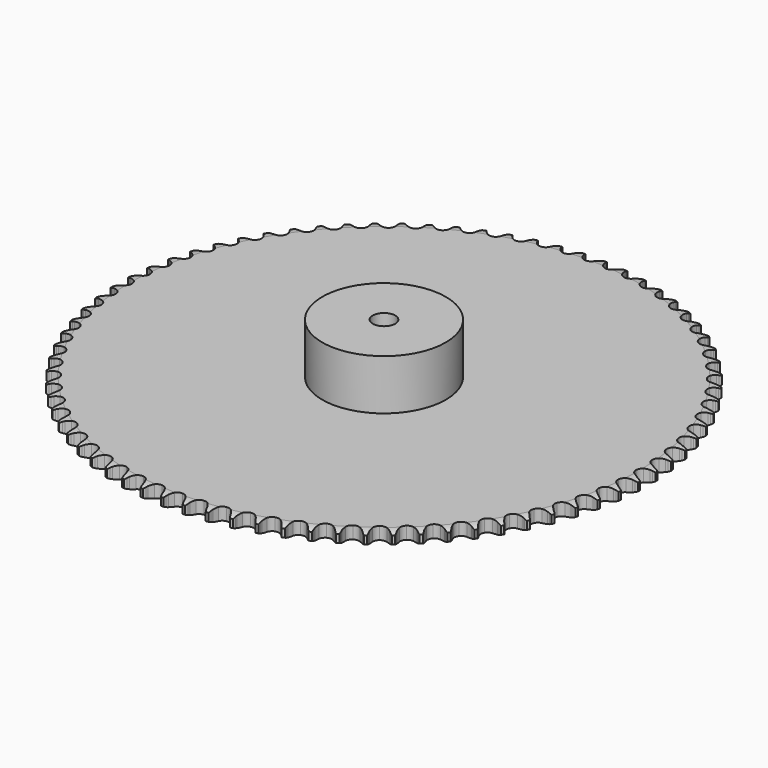
from build123d import *

# Parameters (mm, degrees)
PAD_DEPTH         = 11.1
SKETCH001_R       = 55
PAD001_DEPTH      = 56
SKETCH002_R       = 10
POCKET_DEPTH      = 0.001
POCKET_DEPTH_BACK = 56.001


with BuildPart() as part:
    # Sprocket → Pad (new body)
    with BuildSketch(Plane.XY):
        with BuildLine():
            ThreePointArc((-9.776845, 236.382307), (-8.548277, 234.737815), (-7.693596, 232.871467))
            Line((-7.693596, 232.871467), (-7.109925, 231.129719))
            ThreePointArc((-7.109925, 231.129719), (-6.189177, 228.943845), (-4.950801, 226.920914))
            ThreePointArc((-4.950801, 226.920914), (-2.780815, 225.057204), (0, 224.386887))
            ThreePointArc((0, 224.386887), (2.780815, 225.057204), (4.950801, 226.920914))
            ThreePointArc((4.950801, 226.920914), (6.189177, 228.943845), (7.109925, 231.129719))
            Line((7.109925, 231.129719), (7.693596, 232.871467))
            ThreePointArc((7.693596, 232.871467), (8.548277, 234.737815), (9.776845, 236.382307))
            ThreePointArc((9.776845, 236.382307), (10.865415, 234.641977), (11.563055, 232.711425))
            Line((11.563055, 232.711425), (12.0009, 230.927427))
            ThreePointArc((12.0009, 230.927427), (12.737995, 228.672984), (13.805089, 226.554698))
            ThreePointArc((13.805089, 226.554698), (15.81376, 224.518157), (18.529722, 223.620492))
            ThreePointArc((18.529722, 223.620492), (21.356394, 224.058881), (23.672872, 225.73703))
            Line((23.672872, 225.73703), (26.172182, 229.753161))
            ThreePointArc((26.172182, 229.753161), (26.510327, 230.607541), (26.897691, 231.440761))
            ThreePointArc((26.897691, 231.440761), (27.903576, 233.230155), (29.263748, 234.767576))
            ThreePointArc((29.263748, 234.767576), (30.204885, 232.943297), (30.740719, 230.961728))
            Line((30.740719, 230.961728), (31.029746, 229.147666))
            ThreePointArc((31.029746, 229.147666), (31.578153, 226.840054), (32.466676, 224.640883))
            ThreePointArc((32.466676, 224.640883), (34.30031, 222.445424), (36.932868, 221.326542))
            ThreePointArc((36.932868, 221.326542), (39.786086, 221.53001), (42.233234, 223.011133))
            Line((42.233234, 223.011133), (45.055656, 226.807156))
            ThreePointArc((45.055656, 226.807156), (45.463201, 227.630694), (45.918049, 228.42908))
            ThreePointArc((45.918049, 228.42908), (47.068264, 230.129297), (48.55075, 231.549145))
            ThreePointArc((48.55075, 231.549145), (49.338025, 229.653378), (49.708392, 227.634328))
            Line((49.708392, 227.634328), (49.846628, 225.802595))
            ThreePointArc((49.846628, 225.802595), (50.202601, 223.457577), (50.906483, 221.192544))
            ThreePointArc((50.906483, 221.192544), (52.552555, 218.853163), (55.083724, 217.520708))
            ThreePointArc((55.083724, 217.520708), (57.944, 217.487863), (60.505099, 218.761844))
            Line((60.505099, 218.761844), (63.631355, 222.311828))
            ThreePointArc((63.631355, 222.311828), (64.105514, 223.098898), (64.624739, 223.856996))
            ThreePointArc((64.624739, 223.856996), (65.911429, 225.456422), (67.506101, 226.748998))
            ThreePointArc((67.506101, 226.748998), (68.134136, 224.794693), (68.336506, 222.751955))
            Line((68.336506, 222.751955), (68.323007, 220.915062))
            ThreePointArc((68.323007, 220.915062), (68.484114, 218.548658), (68.998547, 216.233235))
            ThreePointArc((68.998547, 216.233235), (70.445812, 213.765913), (72.858303, 212.228986))
            ThreePointArc((72.858303, 212.228986), (75.706097, 211.960054), (78.363654, 213.01819))
            Line((78.363654, 213.01819), (81.772387, 216.297885))
            ThreePointArc((81.772387, 216.297885), (82.309923, 217.043111), (82.889977, 217.755742))
            ThreePointArc((82.889977, 217.755742), (84.304352, 219.243451), (86.000318, 220.399925))
            ThreePointArc((86.000318, 220.399925), (86.464822, 218.400433), (86.497813, 216.34796))
            Line((86.497813, 216.34796), (86.332671, 214.518456))
            ThreePointArc((86.332671, 214.518456), (86.297811, 212.14683), (86.619281, 209.796834))
            ThreePointArc((86.619281, 209.796834), (87.857853, 207.218425), (90.135186, 205.487526))
            ThreePointArc((90.135186, 205.487526), (92.951045, 204.984343), (95.686905, 205.819406))
            Line((95.686905, 205.819406), (99.354831, 208.806407))
            ThreePointArc((99.354831, 208.806407), (99.95207, 209.504699), (100.588993, 210.166996))
            ThreePointArc((100.588993, 210.166996), (102.12139, 211.532826), (103.907065, 212.545298))
            ThreePointArc((103.907065, 212.545298), (104.204866, 210.514277), (104.068252, 208.46609))
            Line((104.068252, 208.46609), (103.752595, 206.656472))
            ThreePointArc((103.752595, 206.656472), (103.522007, 204.295825), (103.648317, 201.927308))
            ThreePointArc((103.648317, 201.927308), (104.669736, 199.255425), (106.796354, 197.342377))
            ThreePointArc((106.796354, 197.342377), (109.561043, 196.608382), (112.356517, 197.214666))
            Line((112.356517, 197.214666), (116.25858, 199.888571))
            ThreePointArc((116.25858, 199.888571), (116.911444, 200.535158), (117.600883, 201.142596))
            ThreePointArc((117.600883, 201.142596), (119.240836, 202.377216), (121.104021, 203.23877))
            ThreePointArc((121.104021, 203.23877), (121.233084, 201.190094), (120.9278, 199.160184))
            Line((120.9278, 199.160184), (120.463783, 197.382814))
            ThreePointArc((120.463783, 197.382814), (120.039042, 195.049271), (119.969331, 192.678414))
            ThreePointArc((119.969331, 192.678414), (120.766618, 189.931308), (122.727994, 187.84918))
            ThreePointArc((122.727994, 187.84918), (125.422628, 186.889385), (128.258621, 187.262751))
            Line((128.258621, 187.262751), (132.368165, 189.605293))
            ThreePointArc((132.368165, 189.605293), (133.072195, 190.195758), (133.80944, 190.744188))
            ThreePointArc((133.80944, 190.744188), (135.545746, 191.839165), (137.473714, 192.543916))
            ThreePointArc((137.473714, 192.543916), (137.433158, 190.491579), (136.961288, 188.493813))
            Line((136.961288, 188.493813), (136.352082, 186.760831))
            ThreePointArc((136.352082, 186.760831), (135.736089, 184.470334), (135.470832, 182.113331))
            ThreePointArc((135.470832, 182.113331), (136.038542, 179.309768), (137.821278, 177.072782))
            ThreePointArc((137.821278, 177.072782), (140.427449, 175.893744), (143.284588, 176.03164))
            Line((143.284588, 176.03164), (147.573542, 178.026818))
            ThreePointArc((147.573542, 178.026818), (148.323927, 178.557128), (149.103944, 179.042804))
            ThreePointArc((149.103944, 179.042804), (150.924742, 179.990658), (152.904322, 180.533792))
            ThreePointArc((152.904322, 180.533792), (152.694424, 178.491813), (152.059191, 176.539837))
            Line((152.059191, 176.539837), (151.308958, 174.863082))
            ThreePointArc((151.308958, 174.863082), (150.505921, 172.631276), (150.04693, 170.304229))
            ThreePointArc((150.04693, 170.304229), (150.381185, 167.463361), (151.973103, 165.086798))
            ThreePointArc((151.973103, 165.086798), (154.473009, 163.696571), (157.331776, 163.598056))
            Line((157.331776, 163.598056), (161.770841, 165.23224))
            ThreePointArc((161.770841, 165.23224), (162.562456, 165.698773), (163.379916, 166.118376))
            ThreePointArc((163.379916, 166.118376), (165.272768, 166.912632), (167.290439, 167.290439))
            ThreePointArc((167.290439, 167.290439), (166.912632, 165.272768), (166.118376, 163.379916))
            Line((166.118376, 163.379916), (165.23224, 161.770841))
            ThreePointArc((165.23224, 161.770841), (164.247645, 159.612973), (163.598056, 157.331776))
            ThreePointArc((163.598056, 157.331776), (163.696571, 154.473009), (165.086798, 151.973103))
            ThreePointArc((165.086798, 151.973103), (167.463361, 150.381185), (170.304229, 150.04693))
            Line((170.304229, 150.04693), (174.863082, 151.308958))
            ThreePointArc((174.863082, 151.308958), (175.690519, 151.708526), (176.539837, 152.059191))
            ThreePointArc((176.539837, 152.059191), (178.491813, 152.694424), (180.533792, 152.904322))
            ThreePointArc((180.533792, 152.904322), (179.990658, 150.924742), (179.042804, 149.103944))
            Line((179.042804, 149.103944), (178.026818, 147.573542))
            ThreePointArc((178.026818, 147.573542), (176.867391, 145.50435), (176.03164, 143.284588))
            ThreePointArc((176.03164, 143.284588), (175.893744, 140.427449), (177.072782, 137.821278))
            ThreePointArc((177.072782, 137.821278), (179.309768, 136.038542), (182.113331, 135.470832))
            Line((182.113331, 135.470832), (186.760831, 136.352082))
            ThreePointArc((186.760831, 136.352082), (187.618438, 136.681956), (188.493813, 136.961288))
            ThreePointArc((188.493813, 136.961288), (190.491579, 137.433158), (192.543916, 137.473714))
            ThreePointArc((192.543916, 137.473714), (191.839165, 135.545746), (190.744188, 133.80944))
            Line((190.744188, 133.80944), (189.605293, 132.368165))
            ThreePointArc((189.605293, 132.368165), (188.278953, 130.401786), (187.262751, 128.258621))
            ThreePointArc((187.262751, 128.258621), (186.889385, 125.422628), (187.84918, 122.727994))
            ThreePointArc((187.84918, 122.727994), (189.931308, 120.766618), (192.678414, 119.969331))
            Line((192.678414, 119.969331), (197.382814, 120.463783))
            ThreePointArc((197.382814, 120.463783), (198.264732, 120.72171), (199.160184, 120.9278))
            ThreePointArc((199.160184, 120.9278), (201.190094, 121.233084), (203.23877, 121.104021))
            ThreePointArc((203.23877, 121.104021), (202.377216, 119.240836), (201.142596, 117.600883))
            Line((201.142596, 117.600883), (199.888571, 116.25858))
            ThreePointArc((199.888571, 116.25858), (198.404379, 114.408445), (197.214666, 112.356517))
            ThreePointArc((197.214666, 112.356517), (196.608382, 109.561043), (197.342377, 106.796354))
            ThreePointArc((197.342377, 106.796354), (199.255425, 104.669736), (201.927308, 103.648317))
            Line((201.927308, 103.648317), (206.656472, 103.752595))
            ThreePointArc((206.656472, 103.752595), (207.556677, 103.936813), (208.46609, 104.068252))
            ThreePointArc((208.46609, 104.068252), (210.514277, 104.204866), (212.545298, 103.907065))
            ThreePointArc((212.545298, 103.907065), (211.532826, 102.12139), (210.166996, 100.588993))
            Line((210.166996, 100.588993), (208.806407, 99.354831))
            ThreePointArc((208.806407, 99.354831), (207.174502, 97.633578), (205.819406, 95.686905))
            ThreePointArc((205.819406, 95.686905), (204.984343, 92.951045), (205.487526, 90.135186))
            ThreePointArc((205.487526, 90.135186), (207.218425, 87.857853), (209.796834, 86.619281))
            Line((209.796834, 86.619281), (214.518456, 86.332671))
            ThreePointArc((214.518456, 86.332671), (215.4308, 86.441921), (216.34796, 86.497813))
            ThreePointArc((216.34796, 86.497813), (218.400433, 86.464822), (220.399925, 86.000318))
            ThreePointArc((220.399925, 86.000318), (219.243451, 84.304352), (217.755742, 82.889977))
            Line((217.755742, 82.889977), (216.297885, 81.772387))
            ThreePointArc((216.297885, 81.772387), (214.529413, 80.191775), (213.01819, 78.363654))
            ThreePointArc((213.01819, 78.363654), (211.960054, 75.706097), (212.228986, 72.858303))
            ThreePointArc((212.228986, 72.858303), (213.765913, 70.445812), (216.233235, 68.998547))
            Line((216.233235, 68.998547), (220.915062, 68.323007))
            ThreePointArc((220.915062, 68.323007), (221.833312, 68.356544), (222.751955, 68.336506))
            ThreePointArc((222.751955, 68.336506), (224.794693, 68.134136), (226.748998, 67.506101))
            ThreePointArc((226.748998, 67.506101), (225.456422, 65.911429), (223.856996, 64.624739))
            Line((223.856996, 64.624739), (222.311828, 63.631355))
            ThreePointArc((222.311828, 63.631355), (220.418871, 62.202181), (218.761844, 60.505099))
            ThreePointArc((218.761844, 60.505099), (217.487863, 57.944), (217.520708, 55.083724))
            ThreePointArc((217.520708, 55.083724), (218.853163, 52.552555), (221.192544, 50.906483))
            Line((221.192544, 50.906483), (225.802595, 49.846628))
            ThreePointArc((225.802595, 49.846628), (226.720477, 49.804222), (227.634328, 49.708392))
            ThreePointArc((227.634328, 49.708392), (229.653378, 49.338025), (231.549145, 48.55075))
            ThreePointArc((231.549145, 48.55075), (230.129297, 47.068264), (228.42908, 45.918049))
            Line((228.42908, 45.918049), (226.807156, 45.055656))
            ThreePointArc((226.807156, 45.055656), (224.802644, 43.787683), (223.011133, 42.233234))
            ThreePointArc((223.011133, 42.233234), (221.53001, 39.786086), (221.326542, 36.932868))
            ThreePointArc((221.326542, 36.932868), (222.445424, 34.30031), (224.640883, 32.466676))
            Line((224.640883, 32.466676), (229.147666, 31.029746))
            ThreePointArc((229.147666, 31.029746), (230.058912, 30.911687), (230.961728, 30.740719))
            ThreePointArc((230.961728, 30.740719), (232.943297, 30.204885), (234.767576, 29.263748))
            ThreePointArc((234.767576, 29.263748), (233.230155, 27.903576), (231.440761, 26.897691))
            Line((231.440761, 26.897691), (229.753161, 26.172182))
            ThreePointArc((229.753161, 26.172182), (227.650787, 25.074071), (225.73703, 23.672872))
            ThreePointArc((225.73703, 23.672872), (224.058881, 21.356394), (223.620492, 18.529722))
            ThreePointArc((223.620492, 18.529722), (224.518157, 15.81376), (226.554698, 13.805089))
            Line((226.554698, 13.805089), (230.927427, 12.0009))
            ThreePointArc((230.927427, 12.0009), (231.825811, 11.807993), (232.711425, 11.563055))
            ThreePointArc((232.711425, 11.563055), (234.641977, 10.865415), (236.382307, 9.776845))
            ThreePointArc((236.382307, 9.776845), (234.737815, 8.548277), (232.871467, 7.693596))
            Line((232.871467, 7.693596), (231.129719, 7.109925))
            ThreePointArc((231.129719, 7.109925), (228.943845, 6.189177), (226.920914, 4.950801))
            ThreePointArc((226.920914, 4.950801), (225.057204, 2.780815), (224.386887, 0))
            ThreePointArc((224.386887, 0), (225.057204, -2.780815), (226.920914, -4.950801))
            Line((226.920914, -4.950801), (231.129719, -7.109925))
            ThreePointArc((231.129719, -7.109925), (232.009105, -7.376361), (232.871467, -7.693596))
            ThreePointArc((232.871467, -7.693596), (234.737815, -8.548277), (236.382307, -9.776845))
            ThreePointArc((236.382307, -9.776845), (234.641977, -10.865415), (232.711425, -11.563055))
            Line((232.711425, -11.563055), (230.927427, -12.0009))
            ThreePointArc((230.927427, -12.0009), (228.672984, -12.737995), (226.554698, -13.805089))
            ThreePointArc((226.554698, -13.805089), (224.518157, -15.81376), (223.620492, -18.529722))
            ThreePointArc((223.620492, -18.529722), (224.058881, -21.356394), (225.73703, -23.672872))
            Line((225.73703, -23.672872), (229.753161, -26.172182))
            ThreePointArc((229.753161, -26.172182), (230.607541, -26.510327), (231.440761, -26.897691))
            ThreePointArc((231.440761, -26.897691), (233.230155, -27.903576), (234.767576, -29.263748))
            ThreePointArc((234.767576, -29.263748), (232.943297, -30.204885), (230.961728, -30.740719))
            Line((230.961728, -30.740719), (229.147666, -31.029746))
            ThreePointArc((229.147666, -31.029746), (226.840054, -31.578153), (224.640883, -32.466676))
            ThreePointArc((224.640883, -32.466676), (222.445424, -34.30031), (221.326542, -36.932868))
            ThreePointArc((221.326542, -36.932868), (221.53001, -39.786086), (223.011133, -42.233234))
            Line((223.011133, -42.233234), (226.807156, -45.055656))
            ThreePointArc((226.807156, -45.055656), (227.630694, -45.463201), (228.42908, -45.918049))
            ThreePointArc((228.42908, -45.918049), (230.129297, -47.068264), (231.549145, -48.55075))
            ThreePointArc((231.549145, -48.55075), (229.653378, -49.338025), (227.634328, -49.708392))
            Line((227.634328, -49.708392), (225.802595, -49.846628))
            ThreePointArc((225.802595, -49.846628), (223.457577, -50.202601), (221.192544, -50.906483))
            ThreePointArc((221.192544, -50.906483), (218.853163, -52.552555), (217.520708, -55.083724))
            ThreePointArc((217.520708, -55.083724), (217.487863, -57.944), (218.761844, -60.505099))
            Line((218.761844, -60.505099), (222.311828, -63.631355))
            ThreePointArc((222.311828, -63.631355), (223.098898, -64.105514), (223.856996, -64.624739))
            ThreePointArc((223.856996, -64.624739), (225.456422, -65.911429), (226.748998, -67.506101))
            ThreePointArc((226.748998, -67.506101), (224.794693, -68.134136), (222.751955, -68.336506))
            Line((222.751955, -68.336506), (220.915062, -68.323007))
            ThreePointArc((220.915062, -68.323007), (218.548658, -68.484114), (216.233235, -68.998547))
            ThreePointArc((216.233235, -68.998547), (213.765913, -70.445812), (212.228986, -72.858303))
            ThreePointArc((212.228986, -72.858303), (211.960054, -75.706097), (213.01819, -78.363654))
            Line((213.01819, -78.363654), (216.297885, -81.772387))
            ThreePointArc((216.297885, -81.772387), (217.043111, -82.309923), (217.755742, -82.889977))
            ThreePointArc((217.755742, -82.889977), (219.243451, -84.304352), (220.399925, -86.000318))
            ThreePointArc((220.399925, -86.000318), (218.400433, -86.464822), (216.34796, -86.497813))
            Line((216.34796, -86.497813), (214.518456, -86.332671))
            ThreePointArc((214.518456, -86.332671), (212.14683, -86.297811), (209.796834, -86.619281))
            ThreePointArc((209.796834, -86.619281), (207.218425, -87.857853), (205.487526, -90.135186))
            ThreePointArc((205.487526, -90.135186), (204.984343, -92.951045), (205.819406, -95.686905))
            Line((205.819406, -95.686905), (208.806407, -99.354831))
            ThreePointArc((208.806407, -99.354831), (209.504699, -99.95207), (210.166996, -100.588993))
            ThreePointArc((210.166996, -100.588993), (211.532826, -102.12139), (212.545298, -103.907065))
            ThreePointArc((212.545298, -103.907065), (210.514277, -104.204866), (208.46609, -104.068252))
            Line((208.46609, -104.068252), (206.656472, -103.752595))
            ThreePointArc((206.656472, -103.752595), (204.295825, -103.522007), (201.927308, -103.648317))
            ThreePointArc((201.927308, -103.648317), (199.255425, -104.669736), (197.342377, -106.796354))
            ThreePointArc((197.342377, -106.796354), (196.608382, -109.561043), (197.214666, -112.356517))
            Line((197.214666, -112.356517), (199.888571, -116.25858))
            ThreePointArc((199.888571, -116.25858), (200.535158, -116.911444), (201.142596, -117.600883))
            ThreePointArc((201.142596, -117.600883), (202.377216, -119.240836), (203.23877, -121.104021))
            ThreePointArc((203.23877, -121.104021), (201.190094, -121.233084), (199.160184, -120.9278))
            Line((199.160184, -120.9278), (197.382814, -120.463783))
            ThreePointArc((197.382814, -120.463783), (195.049271, -120.039042), (192.678414, -119.969331))
            ThreePointArc((192.678414, -119.969331), (189.931308, -120.766618), (187.84918, -122.727994))
            ThreePointArc((187.84918, -122.727994), (186.889385, -125.422628), (187.262751, -128.258621))
            Line((187.262751, -128.258621), (189.605293, -132.368165))
            ThreePointArc((189.605293, -132.368165), (190.195758, -133.072195), (190.744188, -133.80944))
            ThreePointArc((190.744188, -133.80944), (191.839165, -135.545746), (192.543916, -137.473714))
            ThreePointArc((192.543916, -137.473714), (190.491579, -137.433158), (188.493813, -136.961288))
            Line((188.493813, -136.961288), (186.760831, -136.352082))
            ThreePointArc((186.760831, -136.352082), (184.470334, -135.736089), (182.113331, -135.470832))
            ThreePointArc((182.113331, -135.470832), (179.309768, -136.038542), (177.072782, -137.821278))
            ThreePointArc((177.072782, -137.821278), (175.893744, -140.427449), (176.03164, -143.284588))
            Line((176.03164, -143.284588), (178.026818, -147.573542))
            ThreePointArc((178.026818, -147.573542), (178.557128, -148.323927), (179.042804, -149.103944))
            ThreePointArc((179.042804, -149.103944), (179.990658, -150.924742), (180.533792, -152.904322))
            ThreePointArc((180.533792, -152.904322), (178.491813, -152.694424), (176.539837, -152.059191))
            Line((176.539837, -152.059191), (174.863082, -151.308958))
            ThreePointArc((174.863082, -151.308958), (172.631276, -150.505921), (170.304229, -150.04693))
            ThreePointArc((170.304229, -150.04693), (167.463361, -150.381185), (165.086798, -151.973103))
            ThreePointArc((165.086798, -151.973103), (163.696571, -154.473009), (163.598056, -157.331776))
            Line((163.598056, -157.331776), (165.23224, -161.770841))
            ThreePointArc((165.23224, -161.770841), (165.698773, -162.562456), (166.118376, -163.379916))
            ThreePointArc((166.118376, -163.379916), (166.912632, -165.272768), (167.290439, -167.290439))
            ThreePointArc((167.290439, -167.290439), (165.272768, -166.912632), (163.379916, -166.118376))
            Line((163.379916, -166.118376), (161.770841, -165.23224))
            ThreePointArc((161.770841, -165.23224), (159.612973, -164.247645), (157.331776, -163.598056))
            ThreePointArc((157.331776, -163.598056), (154.473009, -163.696571), (151.973103, -165.086798))
            ThreePointArc((151.973103, -165.086798), (150.381185, -167.463361), (150.04693, -170.304229))
            Line((150.04693, -170.304229), (151.308958, -174.863082))
            ThreePointArc((151.308958, -174.863082), (151.708526, -175.690519), (152.059191, -176.539837))
            ThreePointArc((152.059191, -176.539837), (152.694424, -178.491813), (152.904322, -180.533792))
            ThreePointArc((152.904322, -180.533792), (150.924742, -179.990658), (149.103944, -179.042804))
            Line((149.103944, -179.042804), (147.573542, -178.026818))
            ThreePointArc((147.573542, -178.026818), (145.50435, -176.867391), (143.284588, -176.03164))
            ThreePointArc((143.284588, -176.03164), (140.427449, -175.893744), (137.821278, -177.072782))
            ThreePointArc((137.821278, -177.072782), (136.038542, -179.309768), (135.470832, -182.113331))
            Line((135.470832, -182.113331), (136.352082, -186.760831))
            ThreePointArc((136.352082, -186.760831), (136.681956, -187.618438), (136.961288, -188.493813))
            ThreePointArc((136.961288, -188.493813), (137.433158, -190.491579), (137.473714, -192.543916))
            ThreePointArc((137.473714, -192.543916), (135.545746, -191.839165), (133.80944, -190.744188))
            Line((133.80944, -190.744188), (132.368165, -189.605293))
            ThreePointArc((132.368165, -189.605293), (130.401786, -188.278953), (128.258621, -187.262751))
            ThreePointArc((128.258621, -187.262751), (125.422628, -186.889385), (122.727994, -187.84918))
            ThreePointArc((122.727994, -187.84918), (120.766618, -189.931308), (119.969331, -192.678414))
            Line((119.969331, -192.678414), (120.463783, -197.382814))
            ThreePointArc((120.463783, -197.382814), (120.72171, -198.264732), (120.9278, -199.160184))
            ThreePointArc((120.9278, -199.160184), (121.233084, -201.190094), (121.104021, -203.23877))
            ThreePointArc((121.104021, -203.23877), (119.240836, -202.377216), (117.600883, -201.142596))
            Line((117.600883, -201.142596), (116.25858, -199.888571))
            ThreePointArc((116.25858, -199.888571), (114.408445, -198.404379), (112.356517, -197.214666))
            ThreePointArc((112.356517, -197.214666), (109.561043, -196.608382), (106.796354, -197.342377))
            ThreePointArc((106.796354, -197.342377), (104.669736, -199.255425), (103.648317, -201.927308))
            Line((103.648317, -201.927308), (103.752595, -206.656472))
            ThreePointArc((103.752595, -206.656472), (103.936813, -207.556677), (104.068252, -208.46609))
            ThreePointArc((104.068252, -208.46609), (104.204866, -210.514277), (103.907065, -212.545298))
            ThreePointArc((103.907065, -212.545298), (102.12139, -211.532826), (100.588993, -210.166996))
            Line((100.588993, -210.166996), (99.354831, -208.806407))
            ThreePointArc((99.354831, -208.806407), (97.633578, -207.174502), (95.686905, -205.819406))
            ThreePointArc((95.686905, -205.819406), (92.951045, -204.984343), (90.135186, -205.487526))
            ThreePointArc((90.135186, -205.487526), (87.857853, -207.218425), (86.619281, -209.796834))
            Line((86.619281, -209.796834), (86.332671, -214.518456))
            ThreePointArc((86.332671, -214.518456), (86.441921, -215.4308), (86.497813, -216.34796))
            ThreePointArc((86.497813, -216.34796), (86.464822, -218.400433), (86.000318, -220.399925))
            ThreePointArc((86.000318, -220.399925), (84.304352, -219.243451), (82.889977, -217.755742))
            Line((82.889977, -217.755742), (81.772387, -216.297885))
            ThreePointArc((81.772387, -216.297885), (80.191775, -214.529413), (78.363654, -213.01819))
            ThreePointArc((78.363654, -213.01819), (75.706097, -211.960054), (72.858303, -212.228986))
            ThreePointArc((72.858303, -212.228986), (70.445812, -213.765913), (68.998547, -216.233235))
            Line((68.998547, -216.233235), (68.323007, -220.915062))
            ThreePointArc((68.323007, -220.915062), (68.356544, -221.833312), (68.336506, -222.751955))
            ThreePointArc((68.336506, -222.751955), (68.134136, -224.794693), (67.506101, -226.748998))
            ThreePointArc((67.506101, -226.748998), (65.911429, -225.456422), (64.624739, -223.856996))
            Line((64.624739, -223.856996), (63.631355, -222.311828))
            ThreePointArc((63.631355, -222.311828), (62.202181, -220.418871), (60.505099, -218.761844))
            ThreePointArc((60.505099, -218.761844), (57.944, -217.487863), (55.083724, -217.520708))
            ThreePointArc((55.083724, -217.520708), (52.552555, -218.853163), (50.906483, -221.192544))
            Line((50.906483, -221.192544), (49.846628, -225.802595))
            ThreePointArc((49.846628, -225.802595), (49.804222, -226.720477), (49.708392, -227.634328))
            ThreePointArc((49.708392, -227.634328), (49.338025, -229.653378), (48.55075, -231.549145))
            ThreePointArc((48.55075, -231.549145), (47.068264, -230.129297), (45.918049, -228.42908))
            Line((45.918049, -228.42908), (45.055656, -226.807156))
            ThreePointArc((45.055656, -226.807156), (43.787683, -224.802644), (42.233234, -223.011133))
            ThreePointArc((42.233234, -223.011133), (39.786086, -221.53001), (36.932868, -221.326542))
            ThreePointArc((36.932868, -221.326542), (34.30031, -222.445424), (32.466676, -224.640883))
            Line((32.466676, -224.640883), (31.029746, -229.147666))
            ThreePointArc((31.029746, -229.147666), (30.911687, -230.058912), (30.740719, -230.961728))
            ThreePointArc((30.740719, -230.961728), (30.204885, -232.943297), (29.263748, -234.767576))
            ThreePointArc((29.263748, -234.767576), (27.903576, -233.230155), (26.897691, -231.440761))
            Line((26.897691, -231.440761), (26.172182, -229.753161))
            ThreePointArc((26.172182, -229.753161), (25.074071, -227.650787), (23.672872, -225.73703))
            ThreePointArc((23.672872, -225.73703), (21.356394, -224.058881), (18.529722, -223.620492))
            ThreePointArc((18.529722, -223.620492), (15.81376, -224.518157), (13.805089, -226.554698))
            Line((13.805089, -226.554698), (12.0009, -230.927427))
            ThreePointArc((12.0009, -230.927427), (11.807993, -231.825811), (11.563055, -232.711425))
            ThreePointArc((11.563055, -232.711425), (10.865415, -234.641977), (9.776845, -236.382307))
            ThreePointArc((9.776845, -236.382307), (8.548277, -234.737815), (7.693596, -232.871467))
            Line((7.693596, -232.871467), (7.109925, -231.129719))
            ThreePointArc((7.109925, -231.129719), (6.189177, -228.943845), (4.950801, -226.920914))
            ThreePointArc((4.950801, -226.920914), (2.780815, -225.057204), (0, -224.386887))
            ThreePointArc((0, -224.386887), (-2.780815, -225.057204), (-4.950801, -226.920914))
            Line((-4.950801, -226.920914), (-7.109925, -231.129719))
            ThreePointArc((-7.109925, -231.129719), (-7.376361, -232.009105), (-7.693596, -232.871467))
            ThreePointArc((-7.693596, -232.871467), (-8.548277, -234.737815), (-9.776845, -236.382307))
            ThreePointArc((-9.776845, -236.382307), (-10.865415, -234.641977), (-11.563055, -232.711425))
            Line((-11.563055, -232.711425), (-12.0009, -230.927427))
            ThreePointArc((-12.0009, -230.927427), (-12.737995, -228.672984), (-13.805089, -226.554698))
            ThreePointArc((-13.805089, -226.554698), (-15.81376, -224.518157), (-18.529722, -223.620492))
            ThreePointArc((-18.529722, -223.620492), (-21.356394, -224.058881), (-23.672872, -225.73703))
            Line((-23.672872, -225.73703), (-26.172182, -229.753161))
            ThreePointArc((-26.172182, -229.753161), (-26.510327, -230.607541), (-26.897691, -231.440761))
            ThreePointArc((-26.897691, -231.440761), (-27.903576, -233.230155), (-29.263748, -234.767576))
            ThreePointArc((-29.263748, -234.767576), (-30.204885, -232.943297), (-30.740719, -230.961728))
            Line((-30.740719, -230.961728), (-31.029746, -229.147666))
            ThreePointArc((-31.029746, -229.147666), (-31.578153, -226.840054), (-32.466676, -224.640883))
            ThreePointArc((-32.466676, -224.640883), (-34.30031, -222.445424), (-36.932868, -221.326542))
            ThreePointArc((-36.932868, -221.326542), (-39.786086, -221.53001), (-42.233234, -223.011133))
            Line((-42.233234, -223.011133), (-45.055656, -226.807156))
            ThreePointArc((-45.055656, -226.807156), (-45.463201, -227.630694), (-45.918049, -228.42908))
            ThreePointArc((-45.918049, -228.42908), (-47.068264, -230.129297), (-48.55075, -231.549145))
            ThreePointArc((-48.55075, -231.549145), (-49.338025, -229.653378), (-49.708392, -227.634328))
            Line((-49.708392, -227.634328), (-49.846628, -225.802595))
            ThreePointArc((-49.846628, -225.802595), (-50.202601, -223.457577), (-50.906483, -221.192544))
            ThreePointArc((-50.906483, -221.192544), (-52.552555, -218.853163), (-55.083724, -217.520708))
            ThreePointArc((-55.083724, -217.520708), (-57.944, -217.487863), (-60.505099, -218.761844))
            Line((-60.505099, -218.761844), (-63.631355, -222.311828))
            ThreePointArc((-63.631355, -222.311828), (-64.105514, -223.098898), (-64.624739, -223.856996))
            ThreePointArc((-64.624739, -223.856996), (-65.911429, -225.456422), (-67.506101, -226.748998))
            ThreePointArc((-67.506101, -226.748998), (-68.134136, -224.794693), (-68.336506, -222.751955))
            Line((-68.336506, -222.751955), (-68.323007, -220.915062))
            ThreePointArc((-68.323007, -220.915062), (-68.484114, -218.548658), (-68.998547, -216.233235))
            ThreePointArc((-68.998547, -216.233235), (-70.445812, -213.765913), (-72.858303, -212.228986))
            ThreePointArc((-72.858303, -212.228986), (-75.706097, -211.960054), (-78.363654, -213.01819))
            Line((-78.363654, -213.01819), (-81.772387, -216.297885))
            ThreePointArc((-81.772387, -216.297885), (-82.309923, -217.043111), (-82.889977, -217.755742))
            ThreePointArc((-82.889977, -217.755742), (-84.304352, -219.243451), (-86.000318, -220.399925))
            ThreePointArc((-86.000318, -220.399925), (-86.464822, -218.400433), (-86.497813, -216.34796))
            Line((-86.497813, -216.34796), (-86.332671, -214.518456))
            ThreePointArc((-86.332671, -214.518456), (-86.297811, -212.14683), (-86.619281, -209.796834))
            ThreePointArc((-86.619281, -209.796834), (-87.857853, -207.218425), (-90.135186, -205.487526))
            ThreePointArc((-90.135186, -205.487526), (-92.951045, -204.984343), (-95.686905, -205.819406))
            Line((-95.686905, -205.819406), (-99.354831, -208.806407))
            ThreePointArc((-99.354831, -208.806407), (-99.95207, -209.504699), (-100.588993, -210.166996))
            ThreePointArc((-100.588993, -210.166996), (-102.12139, -211.532826), (-103.907065, -212.545298))
            ThreePointArc((-103.907065, -212.545298), (-104.204866, -210.514277), (-104.068252, -208.46609))
            Line((-104.068252, -208.46609), (-103.752595, -206.656472))
            ThreePointArc((-103.752595, -206.656472), (-103.522007, -204.295825), (-103.648317, -201.927308))
            ThreePointArc((-103.648317, -201.927308), (-104.669736, -199.255425), (-106.796354, -197.342377))
            ThreePointArc((-106.796354, -197.342377), (-109.561043, -196.608382), (-112.356517, -197.214666))
            Line((-112.356517, -197.214666), (-116.25858, -199.888571))
            ThreePointArc((-116.25858, -199.888571), (-116.911444, -200.535158), (-117.600883, -201.142596))
            ThreePointArc((-117.600883, -201.142596), (-119.240836, -202.377216), (-121.104021, -203.23877))
            ThreePointArc((-121.104021, -203.23877), (-121.233084, -201.190094), (-120.9278, -199.160184))
            Line((-120.9278, -199.160184), (-120.463783, -197.382814))
            ThreePointArc((-120.463783, -197.382814), (-120.039042, -195.049271), (-119.969331, -192.678414))
            ThreePointArc((-119.969331, -192.678414), (-120.766618, -189.931308), (-122.727994, -187.84918))
            ThreePointArc((-122.727994, -187.84918), (-125.422628, -186.889385), (-128.258621, -187.262751))
            Line((-128.258621, -187.262751), (-132.368165, -189.605293))
            ThreePointArc((-132.368165, -189.605293), (-133.072195, -190.195758), (-133.80944, -190.744188))
            ThreePointArc((-133.80944, -190.744188), (-135.545746, -191.839165), (-137.473714, -192.543916))
            ThreePointArc((-137.473714, -192.543916), (-137.433158, -190.491579), (-136.961288, -188.493813))
            Line((-136.961288, -188.493813), (-136.352082, -186.760831))
            ThreePointArc((-136.352082, -186.760831), (-135.736089, -184.470334), (-135.470832, -182.113331))
            ThreePointArc((-135.470832, -182.113331), (-136.038542, -179.309768), (-137.821278, -177.072782))
            ThreePointArc((-137.821278, -177.072782), (-140.427449, -175.893744), (-143.284588, -176.03164))
            Line((-143.284588, -176.03164), (-147.573542, -178.026818))
            ThreePointArc((-147.573542, -178.026818), (-148.323927, -178.557128), (-149.103944, -179.042804))
            ThreePointArc((-149.103944, -179.042804), (-150.924742, -179.990658), (-152.904322, -180.533792))
            ThreePointArc((-152.904322, -180.533792), (-152.694424, -178.491813), (-152.059191, -176.539837))
            Line((-152.059191, -176.539837), (-151.308958, -174.863082))
            ThreePointArc((-151.308958, -174.863082), (-150.505921, -172.631276), (-150.04693, -170.304229))
            ThreePointArc((-150.04693, -170.304229), (-150.381185, -167.463361), (-151.973103, -165.086798))
            ThreePointArc((-151.973103, -165.086798), (-154.473009, -163.696571), (-157.331776, -163.598056))
            Line((-157.331776, -163.598056), (-161.770841, -165.23224))
            ThreePointArc((-161.770841, -165.23224), (-162.562456, -165.698773), (-163.379916, -166.118376))
            ThreePointArc((-163.379916, -166.118376), (-165.272768, -166.912632), (-167.290439, -167.290439))
            ThreePointArc((-167.290439, -167.290439), (-166.912632, -165.272768), (-166.118376, -163.379916))
            Line((-166.118376, -163.379916), (-165.23224, -161.770841))
            ThreePointArc((-165.23224, -161.770841), (-164.247645, -159.612973), (-163.598056, -157.331776))
            ThreePointArc((-163.598056, -157.331776), (-163.696571, -154.473009), (-165.086798, -151.973103))
            ThreePointArc((-165.086798, -151.973103), (-167.463361, -150.381185), (-170.304229, -150.04693))
            Line((-170.304229, -150.04693), (-174.863082, -151.308958))
            ThreePointArc((-174.863082, -151.308958), (-175.690519, -151.708526), (-176.539837, -152.059191))
            ThreePointArc((-176.539837, -152.059191), (-178.491813, -152.694424), (-180.533792, -152.904322))
            ThreePointArc((-180.533792, -152.904322), (-179.990658, -150.924742), (-179.042804, -149.103944))
            Line((-179.042804, -149.103944), (-178.026818, -147.573542))
            ThreePointArc((-178.026818, -147.573542), (-176.867391, -145.50435), (-176.03164, -143.284588))
            ThreePointArc((-176.03164, -143.284588), (-175.893744, -140.427449), (-177.072782, -137.821278))
            ThreePointArc((-177.072782, -137.821278), (-179.309768, -136.038542), (-182.113331, -135.470832))
            Line((-182.113331, -135.470832), (-186.760831, -136.352082))
            ThreePointArc((-186.760831, -136.352082), (-187.618438, -136.681956), (-188.493813, -136.961288))
            ThreePointArc((-188.493813, -136.961288), (-190.491579, -137.433158), (-192.543916, -137.473714))
            ThreePointArc((-192.543916, -137.473714), (-191.839165, -135.545746), (-190.744188, -133.80944))
            Line((-190.744188, -133.80944), (-189.605293, -132.368165))
            ThreePointArc((-189.605293, -132.368165), (-188.278953, -130.401786), (-187.262751, -128.258621))
            ThreePointArc((-187.262751, -128.258621), (-186.889385, -125.422628), (-187.84918, -122.727994))
            ThreePointArc((-187.84918, -122.727994), (-189.931308, -120.766618), (-192.678414, -119.969331))
            Line((-192.678414, -119.969331), (-197.382814, -120.463783))
            ThreePointArc((-197.382814, -120.463783), (-198.264732, -120.72171), (-199.160184, -120.9278))
            ThreePointArc((-199.160184, -120.9278), (-201.190094, -121.233084), (-203.23877, -121.104021))
            ThreePointArc((-203.23877, -121.104021), (-202.377216, -119.240836), (-201.142596, -117.600883))
            Line((-201.142596, -117.600883), (-199.888571, -116.25858))
            ThreePointArc((-199.888571, -116.25858), (-198.404379, -114.408445), (-197.214666, -112.356517))
            ThreePointArc((-197.214666, -112.356517), (-196.608382, -109.561043), (-197.342377, -106.796354))
            ThreePointArc((-197.342377, -106.796354), (-199.255425, -104.669736), (-201.927308, -103.648317))
            Line((-201.927308, -103.648317), (-206.656472, -103.752595))
            ThreePointArc((-206.656472, -103.752595), (-207.556677, -103.936813), (-208.46609, -104.068252))
            ThreePointArc((-208.46609, -104.068252), (-210.514277, -104.204866), (-212.545298, -103.907065))
            ThreePointArc((-212.545298, -103.907065), (-211.532826, -102.12139), (-210.166996, -100.588993))
            Line((-210.166996, -100.588993), (-208.806407, -99.354831))
            ThreePointArc((-208.806407, -99.354831), (-207.174502, -97.633578), (-205.819406, -95.686905))
            ThreePointArc((-205.819406, -95.686905), (-204.984343, -92.951045), (-205.487526, -90.135186))
            ThreePointArc((-205.487526, -90.135186), (-207.218425, -87.857853), (-209.796834, -86.619281))
            Line((-209.796834, -86.619281), (-214.518456, -86.332671))
            ThreePointArc((-214.518456, -86.332671), (-215.4308, -86.441921), (-216.34796, -86.497813))
            ThreePointArc((-216.34796, -86.497813), (-218.400433, -86.464822), (-220.399925, -86.000318))
            ThreePointArc((-220.399925, -86.000318), (-219.243451, -84.304352), (-217.755742, -82.889977))
            Line((-217.755742, -82.889977), (-216.297885, -81.772387))
            ThreePointArc((-216.297885, -81.772387), (-214.529413, -80.191775), (-213.01819, -78.363654))
            ThreePointArc((-213.01819, -78.363654), (-211.960054, -75.706097), (-212.228986, -72.858303))
            ThreePointArc((-212.228986, -72.858303), (-213.765913, -70.445812), (-216.233235, -68.998547))
            Line((-216.233235, -68.998547), (-220.915062, -68.323007))
            ThreePointArc((-220.915062, -68.323007), (-221.833312, -68.356544), (-222.751955, -68.336506))
            ThreePointArc((-222.751955, -68.336506), (-224.794693, -68.134136), (-226.748998, -67.506101))
            ThreePointArc((-226.748998, -67.506101), (-225.456422, -65.911429), (-223.856996, -64.624739))
            Line((-223.856996, -64.624739), (-222.311828, -63.631355))
            ThreePointArc((-222.311828, -63.631355), (-220.418871, -62.202181), (-218.761844, -60.505099))
            ThreePointArc((-218.761844, -60.505099), (-217.487863, -57.944), (-217.520708, -55.083724))
            ThreePointArc((-217.520708, -55.083724), (-218.853163, -52.552555), (-221.192544, -50.906483))
            Line((-221.192544, -50.906483), (-225.802595, -49.846628))
            ThreePointArc((-225.802595, -49.846628), (-226.720477, -49.804222), (-227.634328, -49.708392))
            ThreePointArc((-227.634328, -49.708392), (-229.653378, -49.338025), (-231.549145, -48.55075))
            ThreePointArc((-231.549145, -48.55075), (-230.129297, -47.068264), (-228.42908, -45.918049))
            Line((-228.42908, -45.918049), (-226.807156, -45.055656))
            ThreePointArc((-226.807156, -45.055656), (-224.802644, -43.787683), (-223.011133, -42.233234))
            ThreePointArc((-223.011133, -42.233234), (-221.53001, -39.786086), (-221.326542, -36.932868))
            ThreePointArc((-221.326542, -36.932868), (-222.445424, -34.30031), (-224.640883, -32.466676))
            Line((-224.640883, -32.466676), (-229.147666, -31.029746))
            ThreePointArc((-229.147666, -31.029746), (-230.058912, -30.911687), (-230.961728, -30.740719))
            ThreePointArc((-230.961728, -30.740719), (-232.943297, -30.204885), (-234.767576, -29.263748))
            ThreePointArc((-234.767576, -29.263748), (-233.230155, -27.903576), (-231.440761, -26.897691))
            Line((-231.440761, -26.897691), (-229.753161, -26.172182))
            ThreePointArc((-229.753161, -26.172182), (-227.650787, -25.074071), (-225.73703, -23.672872))
            ThreePointArc((-225.73703, -23.672872), (-224.058881, -21.356394), (-223.620492, -18.529722))
            ThreePointArc((-223.620492, -18.529722), (-224.518157, -15.81376), (-226.554698, -13.805089))
            Line((-226.554698, -13.805089), (-230.927427, -12.0009))
            ThreePointArc((-230.927427, -12.0009), (-231.825811, -11.807993), (-232.711425, -11.563055))
            ThreePointArc((-232.711425, -11.563055), (-234.641977, -10.865415), (-236.382307, -9.776845))
            ThreePointArc((-236.382307, -9.776845), (-234.737815, -8.548277), (-232.871467, -7.693596))
            Line((-232.871467, -7.693596), (-231.129719, -7.109925))
            ThreePointArc((-231.129719, -7.109925), (-228.943845, -6.189177), (-226.920914, -4.950801))
            ThreePointArc((-226.920914, -4.950801), (-225.057204, -2.780815), (-224.386887, 0))
            ThreePointArc((-224.386887, 0), (-225.057204, 2.780815), (-226.920914, 4.950801))
            Line((-226.920914, 4.950801), (-231.129719, 7.109925))
            ThreePointArc((-231.129719, 7.109925), (-232.009105, 7.376361), (-232.871467, 7.693596))
            ThreePointArc((-232.871467, 7.693596), (-234.737815, 8.548277), (-236.382307, 9.776845))
            ThreePointArc((-236.382307, 9.776845), (-234.641977, 10.865415), (-232.711425, 11.563055))
            Line((-232.711425, 11.563055), (-230.927427, 12.0009))
            ThreePointArc((-230.927427, 12.0009), (-228.672984, 12.737995), (-226.554698, 13.805089))
            ThreePointArc((-226.554698, 13.805089), (-224.518157, 15.81376), (-223.620492, 18.529722))
            ThreePointArc((-223.620492, 18.529722), (-224.058881, 21.356394), (-225.73703, 23.672872))
            Line((-225.73703, 23.672872), (-229.753161, 26.172182))
            ThreePointArc((-229.753161, 26.172182), (-230.607541, 26.510327), (-231.440761, 26.897691))
            ThreePointArc((-231.440761, 26.897691), (-233.230155, 27.903576), (-234.767576, 29.263748))
            ThreePointArc((-234.767576, 29.263748), (-232.943297, 30.204885), (-230.961728, 30.740719))
            Line((-230.961728, 30.740719), (-229.147666, 31.029746))
            ThreePointArc((-229.147666, 31.029746), (-226.840054, 31.578153), (-224.640883, 32.466676))
            ThreePointArc((-224.640883, 32.466676), (-222.445424, 34.30031), (-221.326542, 36.932868))
            ThreePointArc((-221.326542, 36.932868), (-221.53001, 39.786086), (-223.011133, 42.233234))
            Line((-223.011133, 42.233234), (-226.807156, 45.055656))
            ThreePointArc((-226.807156, 45.055656), (-227.630694, 45.463201), (-228.42908, 45.918049))
            ThreePointArc((-228.42908, 45.918049), (-230.129297, 47.068264), (-231.549145, 48.55075))
            ThreePointArc((-231.549145, 48.55075), (-229.653378, 49.338025), (-227.634328, 49.708392))
            Line((-227.634328, 49.708392), (-225.802595, 49.846628))
            ThreePointArc((-225.802595, 49.846628), (-223.457577, 50.202601), (-221.192544, 50.906483))
            ThreePointArc((-221.192544, 50.906483), (-218.853163, 52.552555), (-217.520708, 55.083724))
            ThreePointArc((-217.520708, 55.083724), (-217.487863, 57.944), (-218.761844, 60.505099))
            Line((-218.761844, 60.505099), (-222.311828, 63.631355))
            ThreePointArc((-222.311828, 63.631355), (-223.098898, 64.105514), (-223.856996, 64.624739))
            ThreePointArc((-223.856996, 64.624739), (-225.456422, 65.911429), (-226.748998, 67.506101))
            ThreePointArc((-226.748998, 67.506101), (-224.794693, 68.134136), (-222.751955, 68.336506))
            Line((-222.751955, 68.336506), (-220.915062, 68.323007))
            ThreePointArc((-220.915062, 68.323007), (-218.548658, 68.484114), (-216.233235, 68.998547))
            ThreePointArc((-216.233235, 68.998547), (-213.765913, 70.445812), (-212.228986, 72.858303))
            ThreePointArc((-212.228986, 72.858303), (-211.960054, 75.706097), (-213.01819, 78.363654))
            Line((-213.01819, 78.363654), (-216.297885, 81.772387))
            ThreePointArc((-216.297885, 81.772387), (-217.043111, 82.309923), (-217.755742, 82.889977))
            ThreePointArc((-217.755742, 82.889977), (-219.243451, 84.304352), (-220.399925, 86.000318))
            ThreePointArc((-220.399925, 86.000318), (-218.400433, 86.464822), (-216.34796, 86.497813))
            Line((-216.34796, 86.497813), (-214.518456, 86.332671))
            ThreePointArc((-214.518456, 86.332671), (-212.14683, 86.297811), (-209.796834, 86.619281))
            ThreePointArc((-209.796834, 86.619281), (-207.218425, 87.857853), (-205.487526, 90.135186))
            ThreePointArc((-205.487526, 90.135186), (-204.984343, 92.951045), (-205.819406, 95.686905))
            Line((-205.819406, 95.686905), (-208.806407, 99.354831))
            ThreePointArc((-208.806407, 99.354831), (-209.504699, 99.95207), (-210.166996, 100.588993))
            ThreePointArc((-210.166996, 100.588993), (-211.532826, 102.12139), (-212.545298, 103.907065))
            ThreePointArc((-212.545298, 103.907065), (-210.514277, 104.204866), (-208.46609, 104.068252))
            Line((-208.46609, 104.068252), (-206.656472, 103.752595))
            ThreePointArc((-206.656472, 103.752595), (-204.295825, 103.522007), (-201.927308, 103.648317))
            ThreePointArc((-201.927308, 103.648317), (-199.255425, 104.669736), (-197.342377, 106.796354))
            ThreePointArc((-197.342377, 106.796354), (-196.608382, 109.561043), (-197.214666, 112.356517))
            Line((-197.214666, 112.356517), (-199.888571, 116.25858))
            ThreePointArc((-199.888571, 116.25858), (-200.535158, 116.911444), (-201.142596, 117.600883))
            ThreePointArc((-201.142596, 117.600883), (-202.377216, 119.240836), (-203.23877, 121.104021))
            ThreePointArc((-203.23877, 121.104021), (-201.190094, 121.233084), (-199.160184, 120.9278))
            Line((-199.160184, 120.9278), (-197.382814, 120.463783))
            ThreePointArc((-197.382814, 120.463783), (-195.049271, 120.039042), (-192.678414, 119.969331))
            ThreePointArc((-192.678414, 119.969331), (-189.931308, 120.766618), (-187.84918, 122.727994))
            ThreePointArc((-187.84918, 122.727994), (-186.889385, 125.422628), (-187.262751, 128.258621))
            Line((-187.262751, 128.258621), (-189.605293, 132.368165))
            ThreePointArc((-189.605293, 132.368165), (-190.195758, 133.072195), (-190.744188, 133.80944))
            ThreePointArc((-190.744188, 133.80944), (-191.839165, 135.545746), (-192.543916, 137.473714))
            ThreePointArc((-192.543916, 137.473714), (-190.491579, 137.433158), (-188.493813, 136.961288))
            Line((-188.493813, 136.961288), (-186.760831, 136.352082))
            ThreePointArc((-186.760831, 136.352082), (-184.470334, 135.736089), (-182.113331, 135.470832))
            ThreePointArc((-182.113331, 135.470832), (-179.309768, 136.038542), (-177.072782, 137.821278))
            ThreePointArc((-177.072782, 137.821278), (-175.893744, 140.427449), (-176.03164, 143.284588))
            Line((-176.03164, 143.284588), (-178.026818, 147.573542))
            ThreePointArc((-178.026818, 147.573542), (-178.557128, 148.323927), (-179.042804, 149.103944))
            ThreePointArc((-179.042804, 149.103944), (-179.990658, 150.924742), (-180.533792, 152.904322))
            ThreePointArc((-180.533792, 152.904322), (-178.491813, 152.694424), (-176.539837, 152.059191))
            Line((-176.539837, 152.059191), (-174.863082, 151.308958))
            ThreePointArc((-174.863082, 151.308958), (-172.631276, 150.505921), (-170.304229, 150.04693))
            ThreePointArc((-170.304229, 150.04693), (-167.463361, 150.381185), (-165.086798, 151.973103))
            ThreePointArc((-165.086798, 151.973103), (-163.696571, 154.473009), (-163.598056, 157.331776))
            Line((-163.598056, 157.331776), (-165.23224, 161.770841))
            ThreePointArc((-165.23224, 161.770841), (-165.698773, 162.562456), (-166.118376, 163.379916))
            ThreePointArc((-166.118376, 163.379916), (-166.912632, 165.272768), (-167.290439, 167.290439))
            ThreePointArc((-167.290439, 167.290439), (-165.272768, 166.912632), (-163.379916, 166.118376))
            Line((-163.379916, 166.118376), (-161.770841, 165.23224))
            ThreePointArc((-161.770841, 165.23224), (-159.612973, 164.247645), (-157.331776, 163.598056))
            ThreePointArc((-157.331776, 163.598056), (-154.473009, 163.696571), (-151.973103, 165.086798))
            ThreePointArc((-151.973103, 165.086798), (-150.381185, 167.463361), (-150.04693, 170.304229))
            Line((-150.04693, 170.304229), (-151.308958, 174.863082))
            ThreePointArc((-151.308958, 174.863082), (-151.708526, 175.690519), (-152.059191, 176.539837))
            ThreePointArc((-152.059191, 176.539837), (-152.694424, 178.491813), (-152.904322, 180.533792))
            ThreePointArc((-152.904322, 180.533792), (-150.924742, 179.990658), (-149.103944, 179.042804))
            Line((-149.103944, 179.042804), (-147.573542, 178.026818))
            ThreePointArc((-147.573542, 178.026818), (-145.50435, 176.867391), (-143.284588, 176.03164))
            ThreePointArc((-143.284588, 176.03164), (-140.427449, 175.893744), (-137.821278, 177.072782))
            ThreePointArc((-137.821278, 177.072782), (-136.038542, 179.309768), (-135.470832, 182.113331))
            Line((-135.470832, 182.113331), (-136.352082, 186.760831))
            ThreePointArc((-136.352082, 186.760831), (-136.681956, 187.618438), (-136.961288, 188.493813))
            ThreePointArc((-136.961288, 188.493813), (-137.433158, 190.491579), (-137.473714, 192.543916))
            ThreePointArc((-137.473714, 192.543916), (-135.545746, 191.839165), (-133.80944, 190.744188))
            Line((-133.80944, 190.744188), (-132.368165, 189.605293))
            ThreePointArc((-132.368165, 189.605293), (-130.401786, 188.278953), (-128.258621, 187.262751))
            ThreePointArc((-128.258621, 187.262751), (-125.422628, 186.889385), (-122.727994, 187.84918))
            ThreePointArc((-122.727994, 187.84918), (-120.766618, 189.931308), (-119.969331, 192.678414))
            Line((-119.969331, 192.678414), (-120.463783, 197.382814))
            ThreePointArc((-120.463783, 197.382814), (-120.72171, 198.264732), (-120.9278, 199.160184))
            ThreePointArc((-120.9278, 199.160184), (-121.233084, 201.190094), (-121.104021, 203.23877))
            ThreePointArc((-121.104021, 203.23877), (-119.240836, 202.377216), (-117.600883, 201.142596))
            Line((-117.600883, 201.142596), (-116.25858, 199.888571))
            ThreePointArc((-116.25858, 199.888571), (-114.408445, 198.404379), (-112.356517, 197.214666))
            ThreePointArc((-112.356517, 197.214666), (-109.561043, 196.608382), (-106.796354, 197.342377))
            ThreePointArc((-106.796354, 197.342377), (-104.669736, 199.255425), (-103.648317, 201.927308))
            Line((-103.648317, 201.927308), (-103.752595, 206.656472))
            ThreePointArc((-103.752595, 206.656472), (-103.936813, 207.556677), (-104.068252, 208.46609))
            ThreePointArc((-104.068252, 208.46609), (-104.204866, 210.514277), (-103.907065, 212.545298))
            ThreePointArc((-103.907065, 212.545298), (-102.12139, 211.532826), (-100.588993, 210.166996))
            Line((-100.588993, 210.166996), (-99.354831, 208.806407))
            ThreePointArc((-99.354831, 208.806407), (-97.633578, 207.174502), (-95.686905, 205.819406))
            ThreePointArc((-95.686905, 205.819406), (-92.951045, 204.984343), (-90.135186, 205.487526))
            ThreePointArc((-90.135186, 205.487526), (-87.857853, 207.218425), (-86.619281, 209.796834))
            Line((-86.619281, 209.796834), (-86.332671, 214.518456))
            ThreePointArc((-86.332671, 214.518456), (-86.441921, 215.4308), (-86.497813, 216.34796))
            ThreePointArc((-86.497813, 216.34796), (-86.464822, 218.400433), (-86.000318, 220.399925))
            ThreePointArc((-86.000318, 220.399925), (-84.304352, 219.243451), (-82.889977, 217.755742))
            Line((-82.889977, 217.755742), (-81.772387, 216.297885))
            ThreePointArc((-81.772387, 216.297885), (-80.191775, 214.529413), (-78.363654, 213.01819))
            ThreePointArc((-78.363654, 213.01819), (-75.706097, 211.960054), (-72.858303, 212.228986))
            ThreePointArc((-72.858303, 212.228986), (-70.445812, 213.765913), (-68.998547, 216.233235))
            Line((-68.998547, 216.233235), (-68.323007, 220.915062))
            ThreePointArc((-68.323007, 220.915062), (-68.356544, 221.833312), (-68.336506, 222.751955))
            ThreePointArc((-68.336506, 222.751955), (-68.134136, 224.794693), (-67.506101, 226.748998))
            ThreePointArc((-67.506101, 226.748998), (-65.911429, 225.456422), (-64.624739, 223.856996))
            Line((-64.624739, 223.856996), (-63.631355, 222.311828))
            ThreePointArc((-63.631355, 222.311828), (-62.202181, 220.418871), (-60.505099, 218.761844))
            ThreePointArc((-60.505099, 218.761844), (-57.944, 217.487863), (-55.083724, 217.520708))
            ThreePointArc((-55.083724, 217.520708), (-52.552555, 218.853163), (-50.906483, 221.192544))
            Line((-50.906483, 221.192544), (-49.846628, 225.802595))
            ThreePointArc((-49.846628, 225.802595), (-49.804222, 226.720477), (-49.708392, 227.634328))
            ThreePointArc((-49.708392, 227.634328), (-49.338025, 229.653378), (-48.55075, 231.549145))
            ThreePointArc((-48.55075, 231.549145), (-47.068264, 230.129297), (-45.918049, 228.42908))
            Line((-45.918049, 228.42908), (-45.055656, 226.807156))
            ThreePointArc((-45.055656, 226.807156), (-43.787683, 224.802644), (-42.233234, 223.011133))
            ThreePointArc((-42.233234, 223.011133), (-39.786086, 221.53001), (-36.932868, 221.326542))
            ThreePointArc((-36.932868, 221.326542), (-34.30031, 222.445424), (-32.466676, 224.640883))
            Line((-32.466676, 224.640883), (-31.029746, 229.147666))
            ThreePointArc((-31.029746, 229.147666), (-30.911687, 230.058912), (-30.740719, 230.961728))
            ThreePointArc((-30.740719, 230.961728), (-30.204885, 232.943297), (-29.263748, 234.767576))
            ThreePointArc((-29.263748, 234.767576), (-27.903576, 233.230155), (-26.897691, 231.440761))
            Line((-26.897691, 231.440761), (-26.172182, 229.753161))
            ThreePointArc((-26.172182, 229.753161), (-25.074071, 227.650787), (-23.672872, 225.73703))
            ThreePointArc((-23.672872, 225.73703), (-21.356394, 224.058881), (-18.529722, 223.620492))
            ThreePointArc((-18.529722, 223.620492), (-15.81376, 224.518157), (-13.805089, 226.554698))
            Line((-13.805089, 226.554698), (-12.0009, 230.927427))
            ThreePointArc((-12.0009, 230.927427), (-11.807993, 231.825811), (-11.563055, 232.711425))
            ThreePointArc((-11.563055, 232.711425), (-10.865415, 234.641977), (-9.776845, 236.382307))
        make_face()
    extrude(amount=PAD_DEPTH)

    # Sketch → Groove (revolve, cut)
    with BuildSketch(Plane.XZ):
        with BuildLine():
            Line((226.464719, 0), (234.95, 0))
            Line((243.435281, 0), (234.95, 0))
            Line((243.435281, 11.1), (243.435281, 0))
            Line((234.95, 11.1), (243.435281, 11.1))
            Line((226.464719, 11.1), (234.95, 11.1))
            ThreePointArc((234.95, 9.1), (230.823618, 10.593242), (226.464719, 11.1))
            Line((234.95, 2), (234.95, 9.1))
            ThreePointArc((226.464719, 0), (230.823618, 0.506758), (234.95, 2))
        make_face()
    revolve(axis=Axis((0, 0, 0), (0, 0, 1)), mode=Mode.SUBTRACT)

    # Sketch001 → Pad001 (join)
    with BuildSketch(Plane.XY):
        Circle(SKETCH001_R)
    extrude(amount=PAD001_DEPTH)

    # Sketch002 → Pocket (cut, two sides)
    with BuildSketch(Plane.XY) as pocket_sk:
        Circle(SKETCH002_R)
    extrude(amount=-POCKET_DEPTH, mode=Mode.SUBTRACT)
    extrude(pocket_sk.sketch, amount=POCKET_DEPTH_BACK, mode=Mode.SUBTRACT)


solid = part.part
